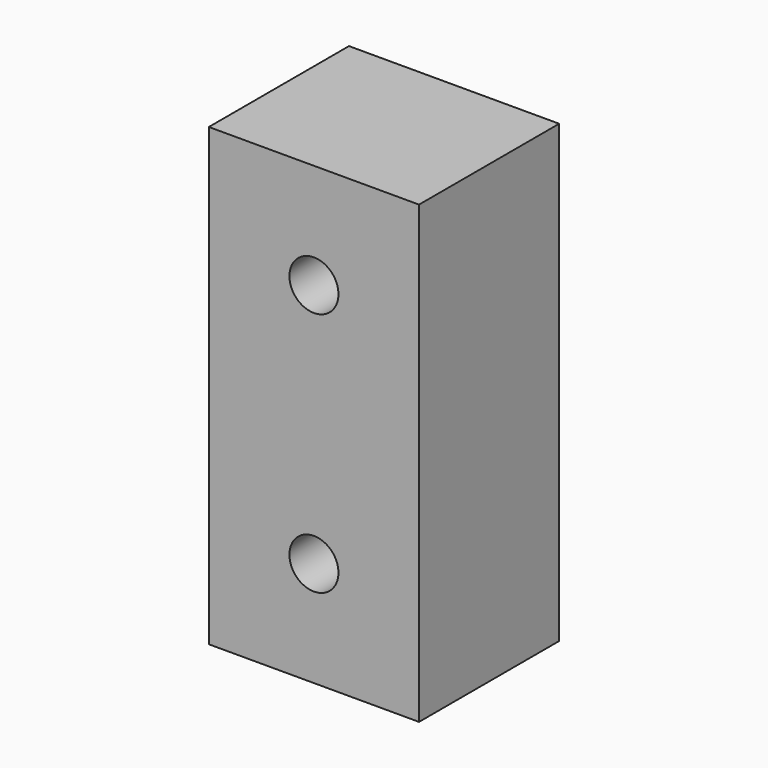
from build123d import *

# Parameters (mm, degrees)
F0_W     = 30
F0_H     = 25
F1_DEPTH = 65
F3_D     = 7
F3_DEPTH = 20
F3_TIP   = 2.1030121666


with BuildPart() as f1:
    # F0 (on Top) → F1 (new body)
    with BuildSketch(Plane.XY):
        Rectangle(F0_W, F0_H)
    extrude(amount=-F1_DEPTH)

    # F3
    with Locations(Plane.XZ.offset(12.5)):
        with Locations((0, -15), (0, -50)):
            Hole(F3_D / 2, depth=F3_DEPTH)
            with Locations((0, 0, -(F3_DEPTH + F3_TIP / 2))):  # 118° drill point
                Cone(0, F3_D / 2, F3_TIP, mode=Mode.SUBTRACT)


solid = f1.part
